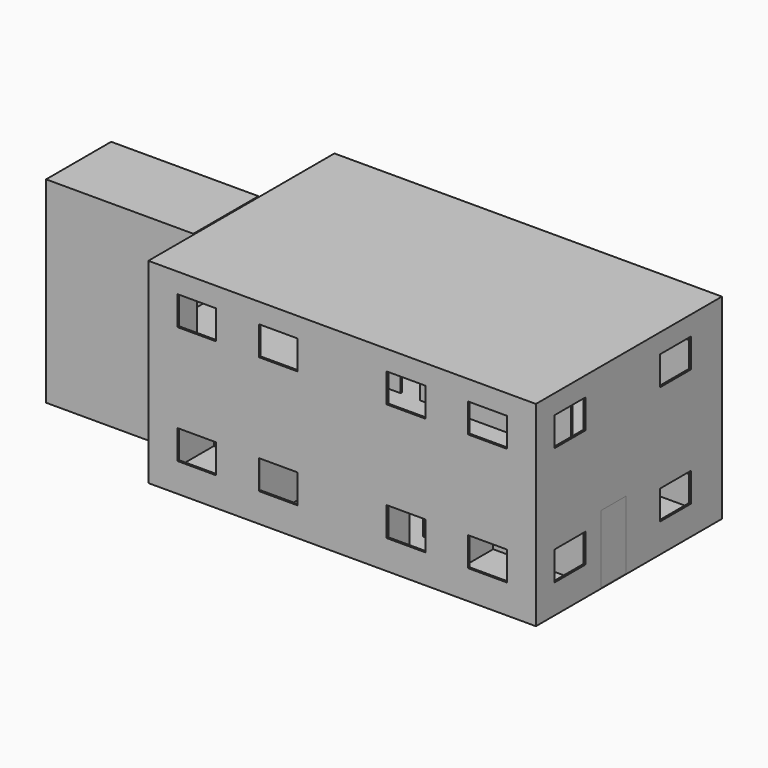
from build123d import *

# Parameters (mm, degrees)
F0_W      = 10000
F0_H      = 6000
F2_DEPTH  = 25
F1_W      = 807.6471351087
F1_H      = 50
F3_DEPTH  = 2500
F5_W      = 10000
F5_H      = 6000
F6_DEPTH  = 200
F7_W      = 50
F7_H      = 800
F7_W_2    = 807.6471351087
F7_H_2    = 50
F7_W_3    = 1750
F7_W_4    = 500
F7_H_3    = 500
F7_W_5    = 400
F8_DEPTH  = 750
F11_W     = 750
F11_H     = 1250
F12_DEPTH = 1000
F13_W     = 800
F13_H     = 1250
F14_DEPTH = 1000
F15_W     = 2000
F15_H     = 200
F16_DEPTH = 1000
F17_W     = 2100
F17_H     = 5075
F17_W_2   = 2000
F17_H_2   = 5000
F18_DEPTH = 3750
F19_W     = 2100
F19_H     = 5075
F20_DEPTH = 50
F21_W     = 50
F21_H     = 1000
F21_W_2   = 3950
F21_H_2   = 50
F21_W_3   = 3900
F22_DEPTH = 2500
F23_W     = 500
F23_H     = 50
F23_W_2   = 50
F23_H_2   = 1000
F23_W_3   = 3950
F23_W_4   = 3900
F24_DEPTH = 750
F25_W     = 10000
F25_H     = 6000
F26_DEPTH = 25
F27_W     = 1000
F27_H     = 750
F28_DEPTH = 50
F29_W     = 1000
F29_H     = 750
F30_DEPTH = 50
F31_W     = 1000
F31_H     = 750
F32_DEPTH = 50
F33_DEPTH = 1750
F34_DEPTH = 1750


with BuildPart() as f2:
    # F0 (on Top) → F2 (new body)
    with BuildSketch(Plane.XY):
        with Locations((5000, 3000)):
            Rectangle(F0_W, F0_H)
    extrude(amount=-F2_DEPTH)

    # F1 (on Top) → F3 (join)
    with BuildSketch(Plane.XY):
        Polygon((0, 2100), (0, 0), (2792.3528648913, 0), (2792.3528648913, 2100), (2300, 2100), (2300, 2050), (2742.3528648913, 2050), (2742.3528648913, 50), (50, 50), (50, 2050), (1800, 2050), (1800, 2100), align=None)
        Polygon((2792.3528648913, 2100), (2792.3528648913, 0), (4192.3528648913, 0), (4192.3528648913, 50), (4192.3528648913, 1100), (4142.3528648913, 1100), (4142.3528648913, 50), (2842.3528648913, 50), (2842.3528648913, 2050), (4142.3528648913, 2050), (4142.3528648913, 1600), (4192.3528648913, 1600), (4192.3528648913, 2100), align=None)
        with Locations((4596.1764324456, 25)):
            Rectangle(F1_W, F1_H)
        Polygon((2800, 6000), (0, 6000), (0, 2900), (1800, 2900), (1800, 2950), (50, 2950), (50, 5950), (2750, 5950), (2750, 2950), (2303.6937713623, 2950), (2300, 2900), (2800, 2900), align=None)
        Polygon((4600, 6000), (2800, 6000), (2800, 2900), (3300, 2900), (3300, 2950), (2850, 2950), (2850, 5950), (4550, 5950), (4550, 2950), (3800.9090423584, 2950), (3800, 2900), (4600, 2900), align=None)
    extrude(amount=F3_DEPTH)

    # F5 (on offset) → F6 (join)
    with BuildSketch(Plane.XY.offset(2500)):
        with Locations((5000, 3000)):
            Rectangle(F5_W, F5_H)
    extrude(amount=-F6_DEPTH)

    # F7 (on offset) → F8 (join)
    with BuildSketch(Plane.XY.offset(2500)):
        Polygon((0, 2100), (0, 0), (2792.3528648913, 0), (2792.3528648913, 2100), (2300, 2100), (2300, 2050), (2742.3528648913, 2050), (2742.3528648913, 50), (50, 50), (50, 2050), (50, 2100), align=None)
        Polygon((2792.3528648913, 2100), (2792.3528648913, 0), (4192.3528648913, 0), (4192.3528648913, 50), (4192.3528648913, 1100), (4142.3528648913, 1100), (4142.3528648913, 50), (2842.3528648913, 50), (2842.3528648913, 2050), (4142.3528648913, 2050), (4142.3528648913, 1600), (4192.3528648913, 1600), (4192.3528648913, 2100), align=None)
        with Locations((25, 2500)):
            Rectangle(F7_W, F7_H)
        with Locations((4596.1764324456, 25)):
            Rectangle(F7_W_2, F7_H_2)
        with Locations((925, 2075)):
            Rectangle(F7_W_3, F7_H_2)
        Polygon((0, 6000), (0, 2900), (50, 2900), (50, 2950), (50, 5950), (2750, 5950), (2750, 2950), (2303.6937713623, 2950), (2300, 2900), (2800, 2900), (2800, 6000), align=None)
        with Locations((2050, 2075)):
            Rectangle(F7_W_4, F7_H_2)
        with Locations((925, 2925)):
            Rectangle(F7_W_3, F7_H_2)
        with Locations((4167.3528648913, 1350)):
            Rectangle(F7_W, F7_H_3)
        Polygon((1800, 2950), (1800, 2900), (2300, 2900), (2303.6937713623, 2950), align=None)
        Polygon((4600, 6000), (2800, 6000), (2800, 2900), (3300, 2900), (3300, 2950), (2850, 2950), (2850, 5950), (4550, 5950), (4600, 5950), align=None)
        with Locations((4800, 5975)):
            Rectangle(F7_W_5, F7_H_2)
        Polygon((4600, 2900), (4600, 5950), (4550, 5950), (4550, 2950), (3800.9090423584, 2950), (3800, 2900), align=None)
        Polygon((3300, 2950), (3300, 2900), (3800, 2900), (3800.9090423584, 2950), align=None)
    extrude(amount=-F8_DEPTH)

    # F9: F2 across face


with BuildPart() as f2_1:
    add(f2.part)
    add(f2.part.mirror(Plane(origin=(5000, 25, 1150), x_dir=(0, 1, 0), z_dir=(1, 0, 0))))



with BuildPart() as f12:
    # F11 (on offset) → F12 (new body)
    with BuildSketch(Plane.XZ.offset(-2500)):
        Polygon((-1181.8181, 0), (-1000, 0), (-1181.8181, 113.6363125), align=None)
        Polygon((-1181.8181, 113.6363125), (-1000, 0), (-1000, 113.6363125), align=None)
        Polygon((-1363.6362, 0), (-1181.8181, 0), (-1181.8181, 113.6363125), (-1363.6362, 227.272625), align=None)
        Polygon((-1363.6362, 227.272625), (-1181.8181, 113.6363125), (-1181.8181, 227.272625), align=None)
        Polygon((-1545.4543, 0), (-1363.6362, 0), (-1363.6362, 227.272625), (-1545.4543, 340.9089375), align=None)
        Polygon((-1545.4543, 340.9089375), (-1363.6362, 227.272625), (-1363.6362, 340.9089375), align=None)
        Polygon((-1727.2723, 0), (-1545.4543, 0), (-1545.4543, 340.9089375), (-1727.2723, 454.5451875), align=None)
        Polygon((-1727.2723, 454.5451875), (-1545.4543, 340.9089375), (-1545.4543, 454.5451875), align=None)
        Polygon((-1909.0903, 0), (-1727.2723, 0), (-1727.2723, 454.5451875), (-1909.0903, 568.1814375), align=None)
        Polygon((-1909.0903, 568.1814375), (-1727.2723, 454.5451875), (-1727.2723, 568.1814375), align=None)
        Polygon((-2090.90218, 0), (-1909.0903, 0), (-1909.0903, 568.1814375), (-2090.90218, 681.8138625), align=None)
        Polygon((-2090.90218, 681.8138625), (-1909.0903, 568.1814375), (-1909.0903, 681.8138625), align=None)
        Polygon((-2272.72028, 0), (-2090.90218, 0), (-2090.90218, 681.8138625), (-2272.72028, 795.450175), align=None)
        Polygon((-2272.72028, 795.450175), (-2090.90218, 681.8138625), (-2090.90218, 795.450175), align=None)
        Polygon((-2454.53838, 0), (-2272.72028, 0), (-2272.72028, 795.450175), (-2454.53838, 909.0864875), align=None)
        Polygon((-2454.53838, 909.0864875), (-2272.72028, 795.450175), (-2272.72028, 909.0864875), align=None)
        Polygon((-2636.35638, 0), (-2454.53838, 0), (-2454.53838, 909.0864875), (-2636.35638, 1022.7227375), align=None)
        Polygon((-2636.35638, 1022.7227375), (-2454.53838, 909.0864875), (-2454.53838, 1022.7227375), align=None)
        Polygon((-2818.17448, 0), (-2636.35638, 0), (-2636.35638, 1022.7227375), (-2818.17448, 1136.35905), align=None)
        Polygon((-2818.17448, 1136.35905), (-2636.35638, 1022.7227375), (-2636.35638, 1136.35905), align=None)
        Polygon((-3000, 0), (-2818.17448, 0), (-2818.17448, 1136.35905), (-3000, 1250), align=None)
        Polygon((-3000, 1250), (-2818.17448, 1136.35905), (-2818.17448, 1250), align=None)
        with Locations((-3375, 625)):
            Rectangle(F11_W, F11_H)
    extrude(amount=-F12_DEPTH)

    # F13 (on offset) → F14 (join)
    with BuildSketch(Plane.XZ.offset(-2500)):
        with Locations((-3350, 625)):
            Rectangle(F13_W, F13_H)
        Polygon((-2950, 1250), (-2950, 0), (-950, 0), (-950, 1250), (-1131.8438, 1250), (-1313.6538, 1250), (-1495.4718, 1250), (-1677.2899, 1250), (-1859.0999, 1250), (-2040.9179, 1250), (-2222.7359, 1250), (-2404.5459, 1250), (-2586.3639, 1250), (-2768.1819, 1250), align=None)
        Polygon((-2768.1819, 1363.6363125), (-2950, 1250), (-2768.1819, 1250), align=None)
        Polygon((-2950, 1363.6363125), (-2950, 1250), (-2768.1819, 1363.6363125), align=None)
        Polygon((-2768.1819, 1363.6363125), (-2768.1819, 1250), (-2586.3639, 1250), (-2586.3639, 1477.2725625), align=None)
        Polygon((-2768.1819, 1477.2725625), (-2768.1819, 1363.6363125), (-2586.3639, 1477.2725625), align=None)
        Polygon((-1131.8438, 1250), (-950, 1250), (-950, 2500), (-1131.8438, 2386.347625), align=None)
        Polygon((-2586.3639, 1477.2725625), (-2586.3639, 1250), (-2404.5459, 1250), (-2404.5459, 1590.9088125), align=None)
        Polygon((-2586.3639, 1590.9088125), (-2586.3639, 1477.2725625), (-2404.5459, 1590.9088125), align=None)
        Polygon((-1313.6538, 1250), (-1131.8438, 1250), (-1131.8438, 2386.347625), (-1313.6538, 2272.716375), align=None)
        Polygon((-1131.8438, 2386.347625), (-950, 2500), (-1131.8438, 2500), align=None)
        Polygon((-2404.5459, 1590.9088125), (-2404.5459, 1250), (-2222.7359, 1250), (-2222.7359, 1704.5400625), align=None)
        Polygon((-2404.5459, 1704.5400625), (-2404.5459, 1590.9088125), (-2222.7359, 1704.5400625), align=None)
        Polygon((-1495.4718, 1250), (-1313.6538, 1250), (-1313.6538, 2272.716375), (-1495.4718, 2159.080125), align=None)
        Polygon((-1313.6538, 2272.716375), (-1131.8438, 2386.347625), (-1313.6538, 2386.347625), align=None)
        Polygon((-2222.7359, 1704.5400625), (-2222.7359, 1250), (-2040.9179, 1250), (-2040.9179, 1818.1763125), align=None)
        Polygon((-2222.7359, 1818.1763125), (-2222.7359, 1704.5400625), (-2040.9179, 1818.1763125), align=None)
        Polygon((-1677.2899, 1250), (-1495.4718, 1250), (-1495.4718, 2159.080125), (-1677.2899, 2045.4438125), align=None)
        Polygon((-1495.4718, 2159.080125), (-1313.6538, 2272.716375), (-1495.4718, 2272.716375), align=None)
        Polygon((-2040.9179, 1818.1763125), (-2040.9179, 1250), (-1859.0999, 1250), (-1859.0999, 1931.8125625), align=None)
        Polygon((-2040.9179, 1931.8125625), (-2040.9179, 1818.1763125), (-1859.0999, 1931.8125625), align=None)
        Polygon((-1859.0999, 1250), (-1677.2899, 1250), (-1677.2899, 2045.4438125), (-1859.0999, 1931.8125625), align=None)
        Polygon((-1677.2899, 2045.4438125), (-1495.4718, 2159.080125), (-1677.2899, 2159.080125), align=None)
        Polygon((-1859.0999, 2045.4438125), (-1859.0999, 1931.8125625), (-1677.2899, 2045.4438125), align=None)
    extrude(amount=F14_DEPTH)


with BuildPart() as f2_2:
    add(f2_1.part)

    add(f12.part)  # F16 merges F12
    # F15 (on face) → F16 (join)
    with BuildSketch(Plane(origin=(0, 0, 0), x_dir=(0, -1, 0), z_dir=(-1, 0, 0))):
        with Locations((-2500, 2400)):
            Rectangle(F15_W, F15_H)
    extrude(amount=F16_DEPTH)

    # F17 (on face) → F18 (join)
    with BuildSketch(Plane(origin=(-3750, 0, 0), x_dir=(0, -1, 0), z_dir=(-1, 0, 0))):
        with Locations((-2500, 2512.5)):
            Rectangle(F17_W, F17_H)
        with Locations((-2500, 2500)):
            Rectangle(F17_W_2, F17_H_2, mode=Mode.SUBTRACT)
    extrude(amount=-F18_DEPTH)

    # F19 (on face) → F20 (join)
    with BuildSketch(Plane(origin=(-3750, 0, 0), x_dir=(0, -1, 0), z_dir=(-1, 0, 0))):
        with Locations((-2500, 2512.5)):
            Rectangle(F19_W, F19_H)
    extrude(amount=F20_DEPTH)

    # F21 (on face) → F22 (join)
    with BuildSketch(Plane.XY.offset(2500)):
        Polygon((4000, 6000), (0, 6000), (0, 3550), (0, 3500), (2950, 3500), (2950, 3550), (50, 3550), (50, 5950), (3950, 5950), (3950, 3550), (3450, 3550), (3450, 3500), (4000, 3500), align=None)
        Polygon((7500, 6000), (4000, 6000), (4000, 3500), (4550, 3500), (4550, 3550), (4050, 3550), (4050, 5950), (7450, 5950), (7450, 3550), (5050, 3550), (5050, 3500), (7500, 3500), align=None)
        Polygon((10000, 6000), (7500, 6000), (7500, 3500), (8050, 3500), (8050, 3550), (7550, 3550), (7550, 5950), (9950, 5950), (9950, 3550), (8550, 3550), (8550, 3500), (9950, 3500), (10000, 3500), align=None)
        with Locations((9975, 3000)):
            Rectangle(F21_W, F21_H)
        Polygon((10000, 0), (10000, 2500), (9950, 2500), (9450, 2500), (9450, 2450), (9950, 2450), (9950, 50), (4050, 50), (4050, 2450), (4550, 2450), (4550, 2500), (4000, 2500), (4000, 50), (4000, 0), align=None)
        with Locations((2025, 25)):
            Rectangle(F21_W_2, F21_H_2)
        Polygon((0, 0), (50, 0), (50, 50), (50, 1500), (0, 1500), (0, 1450), align=None)
        with Locations((7000, 2475)):
            Rectangle(F21_W_3, F21_H_2)
    extrude(amount=F22_DEPTH)

    # F23 (on face) → F24 (join)
    with BuildSketch(Plane.XY.offset(5000)):
        Polygon((4000, 6000), (0, 6000), (0, 3550), (0, 3500), (2950, 3500), (2950, 3550), (50, 3550), (50, 5950), (3950, 5950), (3950, 3550), (3450, 3550), (3450, 3500), (4000, 3500), align=None)
        Polygon((7500, 6000), (4000, 6000), (4000, 3500), (4550, 3500), (4550, 3550), (4050, 3550), (4050, 5950), (7450, 5950), (7450, 3550), (5050, 3550), (5050, 3500), (7500, 3500), align=None)
        Polygon((10000, 6000), (7500, 6000), (7500, 3500), (8050, 3500), (8050, 3550), (7550, 3550), (7550, 5950), (9950, 5950), (9950, 3550), (8550, 3550), (8550, 3500), (9950, 3500), (10000, 3500), align=None)
        with Locations((4800, 3525)):
            Rectangle(F23_W, F23_H)
        with Locations((3200, 3525)):
            Rectangle(F23_W, F23_H)
        with Locations((9975, 3000)):
            Rectangle(F23_W_2, F23_H_2)
        with Locations((8300, 3525)):
            Rectangle(F23_W, F23_H)
        Polygon((10000, 0), (10000, 2500), (9950, 2500), (9450, 2500), (9450, 2450), (9950, 2450), (9950, 50), (4050, 50), (4050, 2450), (4550, 2450), (4550, 2500), (4000, 2500), (4000, 50), (4000, 0), align=None)
        with Locations((2025, 25)):
            Rectangle(F23_W_3, F23_H)
        with Locations((9200, 2475)):
            Rectangle(F23_W, F23_H)
        Polygon((0, 0), (50, 0), (50, 50), (50, 1500), (0, 1500), (0, 1450), align=None)
        with Locations((7000, 2475)):
            Rectangle(F23_W_4, F23_H)
        with Locations((4800, 2475)):
            Rectangle(F23_W, F23_H)
    extrude(amount=-F24_DEPTH)

    # F25 (on face) → F26 (join)
    with BuildSketch(Plane.XY.offset(5000)):
        with Locations((5000, 3000)):
            Rectangle(F25_W, F25_H)
    extrude(amount=F26_DEPTH)

    # F27 (on face) → F28 (cut)
    with BuildSketch(Plane(origin=(0, 6000, 0), x_dir=(-1, 0, 0), z_dir=(0, 1, 0))):
        with Locations((-3350, 1125)):
            Rectangle(F27_W, F27_H)
        with Locations((-1250, 1125)):
            Rectangle(F27_W, F27_H)
        with Locations((-3350, 4167.3908233643)):
            Rectangle(F27_W, F27_H)
        with Locations((-1250, 4167.3908233643)):
            Rectangle(F27_W, F27_H)
        with Locations((-8750, 1125)):
            Rectangle(F27_W, F27_H)
        with Locations((-6650, 1125)):
            Rectangle(F27_W, F27_H)
        with Locations((-8750, 4167.3908233643)):
            Rectangle(F27_W, F27_H)
        with Locations((-6650, 4167.3908233643)):
            Rectangle(F27_W, F27_H)
    extrude(amount=-F28_DEPTH, mode=Mode.SUBTRACT)

    # F29 (on face) → F30 (cut)
    with BuildSketch(Plane.XZ):
        with Locations((6650, 1100)):
            Rectangle(F29_W, F29_H)
        with Locations((8750, 1100)):
            Rectangle(F29_W, F29_H)
        with Locations((6650, 4137.3906135559)):
            Rectangle(F29_W, F29_H)
        with Locations((8750, 4137.3906135559)):
            Rectangle(F29_W, F29_H)
        with Locations((1250, 1094.9997901917)):
            Rectangle(F29_W, F29_H)
        with Locations((3350, 1094.9997901917)):
            Rectangle(F29_W, F29_H)
        with Locations((1250, 4137.3906135559)):
            Rectangle(F29_W, F29_H)
        with Locations((3350, 4137.3906135559)):
            Rectangle(F29_W, F29_H)
    extrude(amount=-F30_DEPTH, mode=Mode.SUBTRACT)

    # F31 (on face) → F32 (cut)
    with BuildSketch(Plane.YZ.offset(10000)):
        with Locations((1100, 1100)):
            Rectangle(F31_W, F31_H)
        with Locations((4500, 1100)):
            Rectangle(F31_W, F31_H)
        with Locations((1100, 4150)):
            Rectangle(F31_W, F31_H)
        with Locations((4500, 4150)):
            Rectangle(F31_W, F31_H)
    extrude(amount=-F32_DEPTH, mode=Mode.SUBTRACT)


with BuildPart() as f33:
    # F33 (new): a face of the model
    f33_faces = [f2_2.part.faces().sort_by_distance(p)[0] for p in [
        (9975, 2500, 1750),
    ]]
    extrude(f33_faces, amount=F33_DEPTH)


with BuildPart() as f34:
    # F34 (new): a face of the model
    f34_faces = [f2_2.part.faces().sort_by_distance(p)[0] for p in [
        (5000, 5975, 1750),
    ]]
    extrude(f34_faces, amount=F34_DEPTH)


solid = Compound([f2_2.part, f33.part, f34.part])
